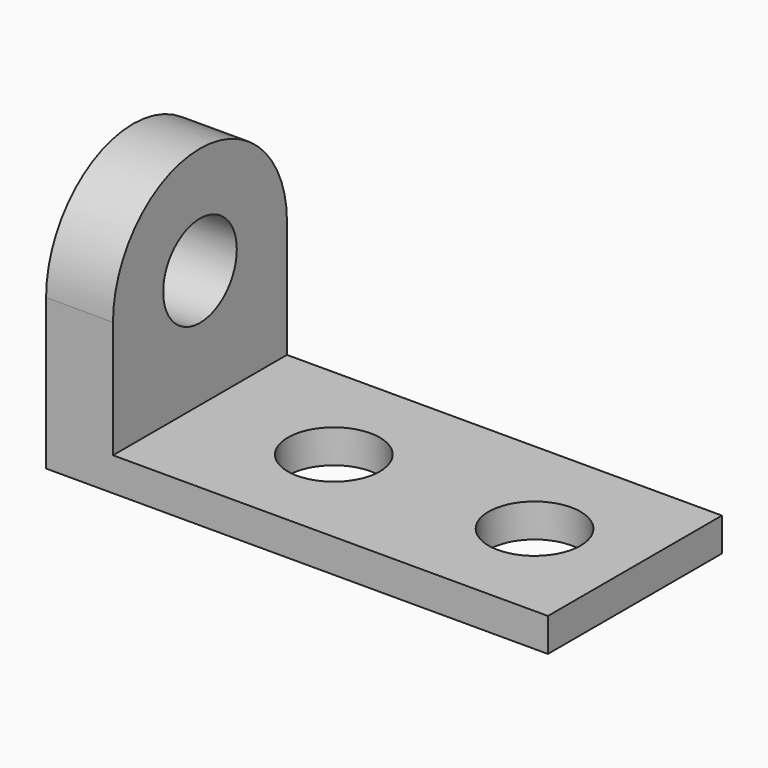
from build123d import *

# Parameters (mm, degrees)
F1_DEPTH = 82.55
F2_R     = 17.4625
F3_DEPTH = 12.7
F6_DEPTH = 25.4
F7_R     = 17.4625
F8_DEPTH = 25.4


with BuildPart() as f1:
    # F0 (on Front) → F1 (new body)
    with BuildSketch(Plane.XZ):
        Polygon((0, 114.3), (0, 0), (190.5, 0), (190.5, 12.7), (25.4, 12.7), (25.4, 114.3), align=None)
    extrude(amount=-F1_DEPTH)

    # F2 (on face) → F3 (cut)
    with BuildSketch(Plane.XY.offset(12.7)):
        with Locations((76.2, 41.275)):
            Circle(F2_R)
        with Locations((152.4, 41.275)):
            Circle(F2_R)
    extrude(amount=-F3_DEPTH, mode=Mode.SUBTRACT)

    # F5 (on face) → F6 (cut)
    with BuildSketch(Plane(origin=(0, 0, 0), x_dir=(0, -1, 0), z_dir=(-1, 0, 0))):
        with BuildLine():
            ThreePointArc((-82.55, 57.15), (-41.275, 98.425), (0, 57.15))
            Line((0, 57.15), (0, 114.3))
            Line((0, 114.3), (-82.55, 114.3))
            Line((-82.55, 114.3), (-82.55, 57.15))
        make_face()
    extrude(amount=-F6_DEPTH, mode=Mode.SUBTRACT)

    # F7 (on face) → F8 (cut, through all)
    with BuildSketch(Plane.YZ.offset(25.4)):
        with Locations((41.275, 57.625926)):
            Circle(F7_R)
    extrude(amount=-F8_DEPTH, mode=Mode.SUBTRACT)


solid = f1.part
